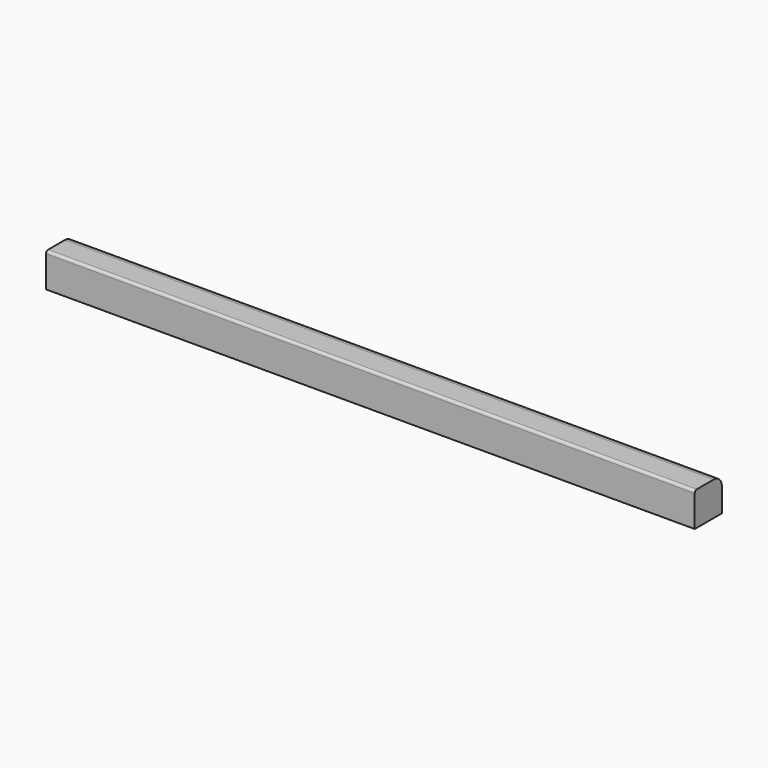
from build123d import *

# Parameters (mm, degrees)
F0_W     = 66
F0_H     = 66
F1_DEPTH = 1260
F2_R     = 20
F3_R     = 5


with BuildPart() as f1:
    # F0 (on Right) → F1 (new body)
    with BuildSketch(Plane.YZ):
        with Locations((33, 33)):
            Rectangle(F0_W, F0_H)
    extrude(amount=F1_DEPTH)

    # F2
    f2_edges = [f1.edges().sort_by_distance(p)[0] for p in [
        (630, 66, 66),
    ]]
    fillet(f2_edges, radius=F2_R)

    # F3
    f3_edges = [f1.edges().sort_by_distance(p)[0] for p in [
        (630, 0, 66),
    ]]
    fillet(f3_edges, radius=F3_R)


solid = f1.part
